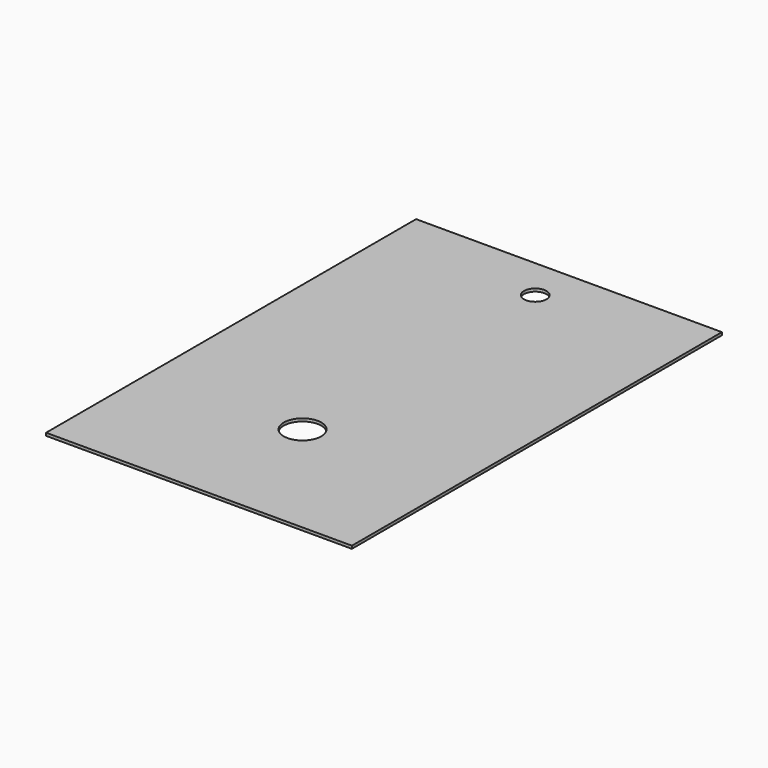
from build123d import *

# Parameters (mm, degrees)
F0_W     = 163
F0_H     = 246.5
F1_DEPTH = 1.5
F2_R     = 6
F2_R_2   = 10
F3_DEPTH = 1.5


with BuildPart() as f1:
    # F0 (on Top) → F1 (new body)
    with BuildSketch(Plane.XY):
        Rectangle(F0_W, F0_H)
    extrude(amount=F1_DEPTH)

    # F2 (on face) → F3 (cut)
    with BuildSketch(Plane.XY.offset(1.5)):
        with Locations((0, 100.75)):
            Circle(F2_R)
        with Locations((0, -54.25)):
            Circle(F2_R_2)
    extrude(amount=-F3_DEPTH, mode=Mode.SUBTRACT)


solid = f1.part
